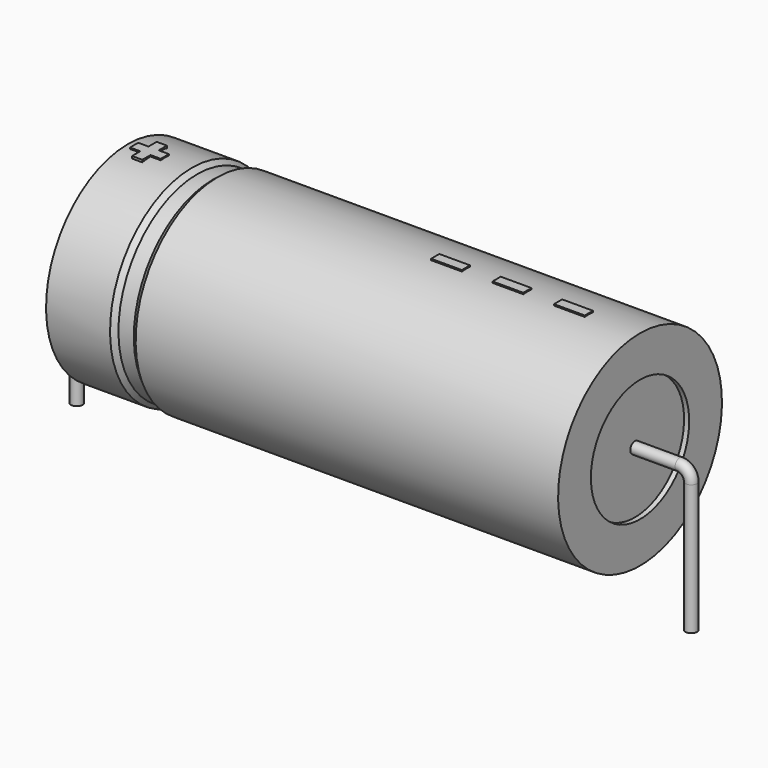
from build123d import *

# Parameters (mm, degrees)
SKETCH_R    = 0.45
SKETCH004_W = 2.4
SKETCH004_H = 0.8
PAD_DEPTH   = 8.08


with BuildPart() as sweep_body:
    # Sweep: sweep along a path in Sketch001
    with BuildLine(Plane.XZ) as sweep_path:
        Line((0, -3), (0, 7.2))
        ThreePointArc((0, 7.2), (0.263601, 7.836394), (0.899993, 8.1))
        Line((0.899993, 8.1), (47.1, 8.1))
        ThreePointArc((47.1, 8.1), (47.736396, 7.836396), (48, 7.2))
        Line((48, 7.2), (48, -3))
    # Sketch → Sweep (sweep)
    with BuildSketch(Plane.XY.offset(-2)):
        Circle(SKETCH_R)
    sweep(path=sweep_path.line)


with BuildPart() as revolution:
    # Sketch002 → Revolution (revolve)
    with BuildSketch(Plane.XZ):
        Polygon((4, 16.1), (4, 12.9), (44, 12.9), (44, 16.1), (11, 16.1), (10.6, 15.78), (9.4, 15.78), (9, 16.1), align=None)
    revolve(axis=Axis((6.97588, 0, 8.1), (1, 0, 0)))


with BuildPart() as revolution001:
    # Sketch003 → Revolution001 (revolve)
    with BuildSketch(Plane.XZ):
        Polygon((4.4, 15.78), (6.4, 15.78), (6.4, 8.9), (41.6, 8.9), (41.6, 15.78), (43.6, 15.78), (43.6, 8.1), (4.4, 8.1), align=None)
    revolve(axis=Axis((6.97588, 0, 8.1), (1, 0, 0)))


with BuildPart() as pad:
    # Sketch004 → Pad (new body)
    with BuildSketch(Plane.XY.offset(8.1)):
        with Locations((38.8, 0)):
            Rectangle(SKETCH004_W, SKETCH004_H)
        with Locations((34, 0)):
            Rectangle(SKETCH004_W, SKETCH004_H)
        with Locations((29.2, 0)):
            Rectangle(SKETCH004_W, SKETCH004_H)
        Polygon((5.28, 0.4), (4.48, 0.4), (4.48, -0.4), (5.28, -0.4), (5.28, -1.2), (6.08, -1.2), (6.08, -0.4), (6.88, -0.4), (6.88, 0.4), (6.08, 0.4), (6.08, 1.2), (5.28, 1.2), align=None)
    extrude(amount=PAD_DEPTH)


solid = Compound([sweep_body.part, revolution.part, revolution001.part, pad.part])
